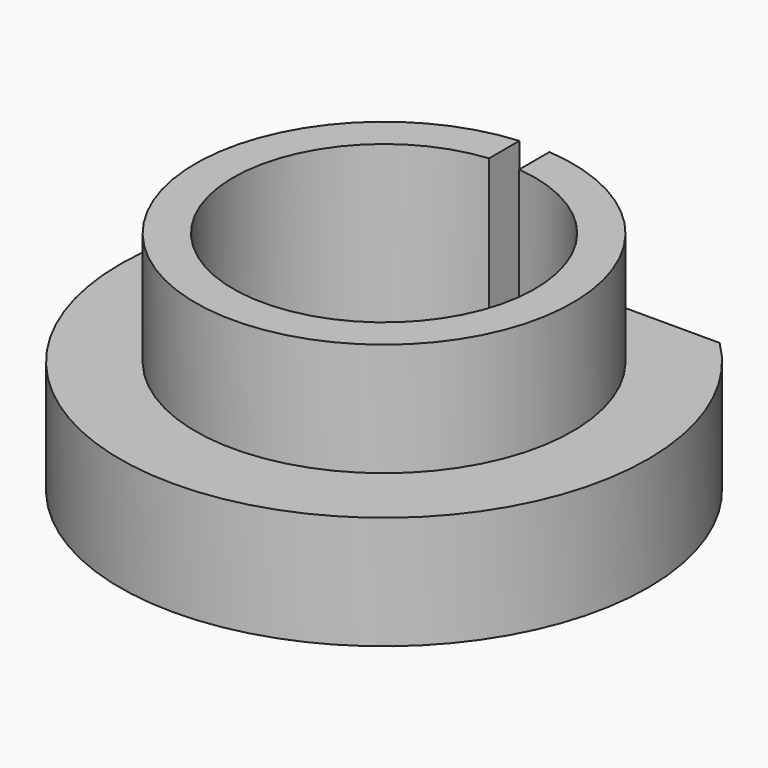
from build123d import *

# Parameters (mm, degrees)
F0_R     = 7
F0_R_2   = 4
F1_DEPTH = 3
F2_R     = 5
F2_R_2   = 4
F3_DEPTH = 3
F5_DEPTH = 6


with BuildPart() as f1:
    # F0 (on Top) → F1 (new body)
    with BuildSketch(Plane.XY):
        Circle(F0_R)
        Circle(F0_R_2, mode=Mode.SUBTRACT)
    extrude(amount=F1_DEPTH)

    # F2 (on face) → F3 (join)
    with BuildSketch(Plane.XY.offset(3)):
        Circle(F2_R)
        Circle(F2_R_2, mode=Mode.SUBTRACT)
    extrude(amount=F3_DEPTH)

    # F4 (on Top) → F5 (cut, through all)
    with BuildSketch(Plane.XY):
        with BuildLine():
            Line((0.4, 5), (4.8989794856, 5))
            ThreePointArc((4.8989794856, 5), (0, 7), (-4.8989794856, 5))
            Line((-4.8989794856, 5), (-0.4, 5))
            Line((-0.4, 5), (0, 5))
            Line((0, 5), (0.4, 5))
        make_face()
        Polygon((0.4, 3.376792185), (0.4, 5), (0, 5), (-0.4, 5), (-0.4, 3.376792185), align=None)
    extrude(amount=F5_DEPTH, mode=Mode.SUBTRACT)


solid = f1.part
